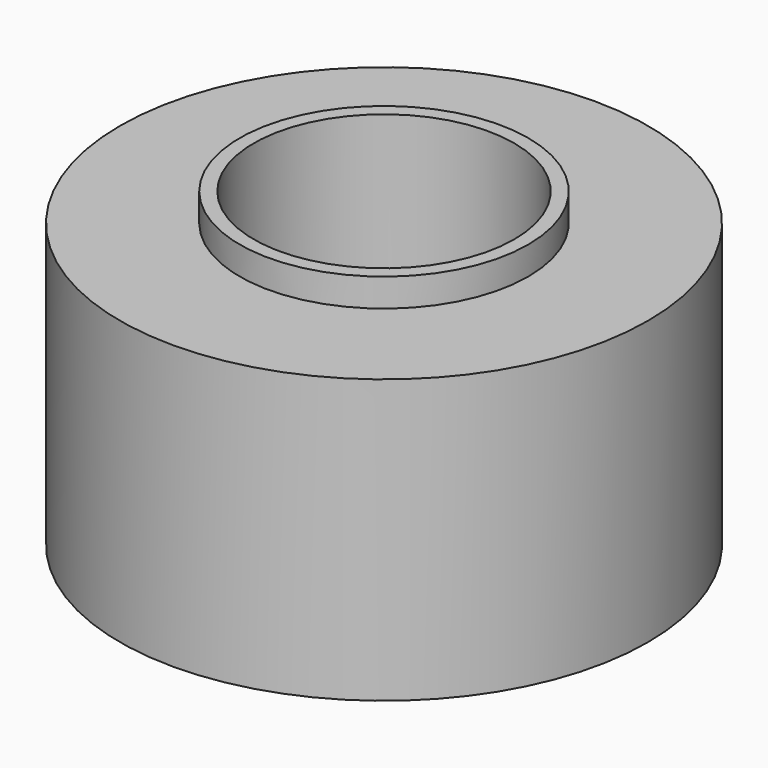
from build123d import *

# Parameters (mm, degrees)
F0_R     = 4.7625
F0_R_2   = 2.3495
F1_DEPTH = 2.8067
F2_R     = 4.7625
F2_R_2   = 2.6035
F3_DEPTH = 0.508


with BuildPart() as f1:
    # F0 (on Top) → F1 (new body, symmetric)
    with BuildSketch(Plane.XY):
        Circle(F0_R)
        Circle(F0_R_2, mode=Mode.SUBTRACT)
    extrude(amount=F1_DEPTH, both=True)

    # F2 (on face) → F3 (cut)
    with BuildSketch(Plane.XY.offset(2.8067)):
        Circle(F2_R)
        Circle(F2_R_2, mode=Mode.SUBTRACT)
    extrude(amount=-F3_DEPTH, mode=Mode.SUBTRACT)


solid = f1.part
